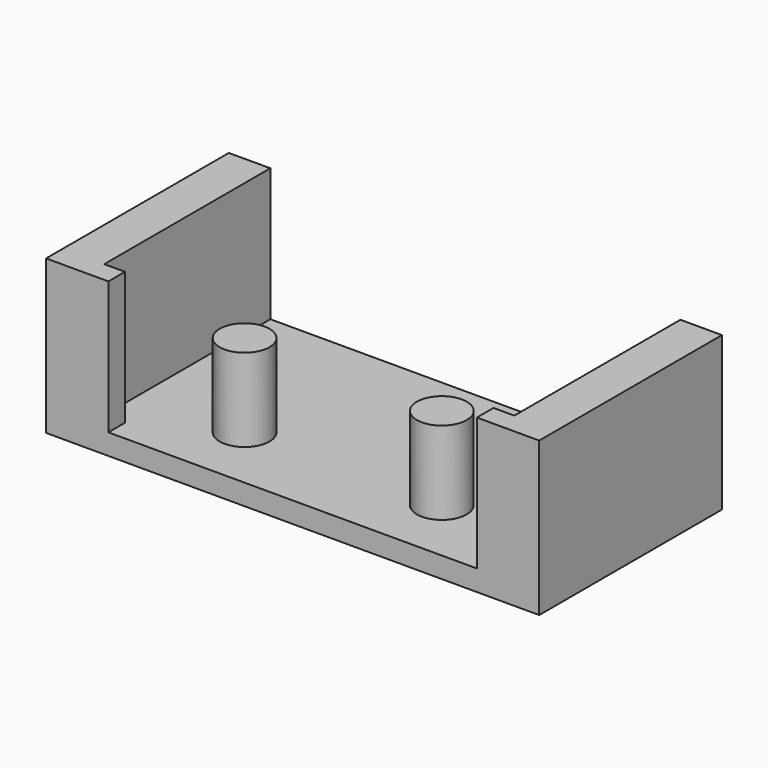
from build123d import *

# Parameters (mm, degrees)
F0_R     = 1.2
F1_DEPTH = 1
F2_DEPTH = 7.4
F3_DEPTH = 5


with BuildPart() as f1:
    # F0 (on Top) → F1 (new body)
    with BuildSketch(Plane.XY):
        Polygon((34.807068, -8.220604), (15.057068, -8.220604), (15.057068, -18.220604), (16.057068, -18.220604), (16.057068, -19.220604), (33.807068, -19.220604), (33.807068, -18.220604), (34.807068, -18.220604), align=None)
        with Locations((20.057068, -16.020604)):
            Circle(F0_R, mode=Mode.SUBTRACT)
        with Locations((29.557068, -16.020604)):
            Circle(F0_R, mode=Mode.SUBTRACT)
    extrude(amount=F1_DEPTH)

    # F0 (on Top) → F2 (join)
    with BuildSketch(Plane.XY):
        Polygon((15.057068, -8.220604), (13.057068, -8.220604), (13.057068, -19.220604), (16.057068, -19.220604), (16.057068, -18.220604), (15.057068, -18.220604), align=None)
        Polygon((36.807068, -8.220604), (34.807068, -8.220604), (34.807068, -18.220604), (33.807068, -18.220604), (33.807068, -19.220604), (36.807068, -19.220604), align=None)
    extrude(amount=F2_DEPTH)

    # F0 (on Top) → F3 (join)
    with BuildSketch(Plane.XY):
        with Locations((20.057068, -16.020604)):
            Circle(F0_R)
        with Locations((29.557068, -16.020604)):
            Circle(F0_R)
    extrude(amount=F3_DEPTH)


solid = f1.part
